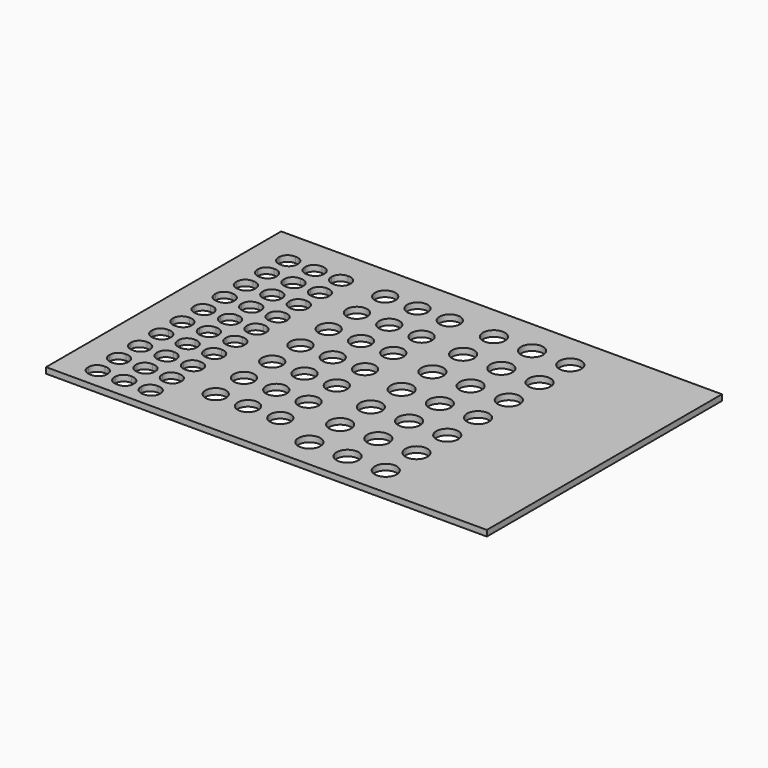
from build123d import *

# Parameters (mm, degrees)
F0_W     = 15
F0_H     = 10
F0_R     = 0.35
F0_R_2   = 0.375
F1_DEPTH = 0.2


with BuildPart() as f1:
    # F0 (on Top) → F1 (new body)
    with BuildSketch(Plane.XY):
        with Locations((7.5, -5)):
            Rectangle(F0_W, F0_H)
        with BuildLine():
            add(Edge.make_bspline(
                [(1.500725, -9.423245), (1.524845, -9.364392), (1.521017, -9.3)],
                knots=[0, 0, 0, 0.417835, 0.417835, 0.417835], degree=2, weights=[1, 0.978256, 1]))
            add(Edge.make_bspline(
                [(1.2, -9.603243), (1.422129, -9.615023), (1.500725, -9.423245)],
                knots=[5.07405, 5.07405, 5.07405, 6.283185, 6.283185, 6.283185], degree=2, weights=[1, 0.822748, 1]))
            add(Edge.make_bspline(
                [(0.878983, -9.3), (0.859887, -9.621281), (1.2, -9.603243)],
                knots=[2.723758, 2.723758, 2.723758, 4.350728, 4.350728, 4.350728], degree=2, weights=[1, 0.68697, 1]))
            add(Edge.make_bspline(
                [(1.2, -8.996757), (0.859887, -8.978719), (0.878983, -9.3)],
                knots=[1.932458, 1.932458, 1.932458, 3.559427, 3.559427, 3.559427], degree=2, weights=[1, 0.68697, 1]))
            add(Edge.make_bspline(
                [(1.500725, -9.176755), (1.422129, -8.984977), (1.2, -8.996757)],
                knots=[0, 0, 0, 1.209135, 1.209135, 1.209135], degree=2, weights=[1, 0.822748, 1]))
            add(Edge.make_bspline(
                [(1.521017, -9.3), (1.524845, -9.235608), (1.500725, -9.176755)],
                knots=[5.86535, 5.86535, 5.86535, 6.283185, 6.283185, 6.283185], degree=2, weights=[1, 0.978256, 1]))
        make_face(mode=Mode.SUBTRACT)
        with BuildLine():
            add(Edge.make_bspline(
                [(2.400725, -9.176755), (2.322129, -8.984977), (2.1, -8.996757)],
                knots=[0, 0, 0, 1.209135, 1.209135, 1.209135], degree=2, weights=[1, 0.822748, 1]))
            add(Edge.make_bspline(
                [(2.421017, -9.3), (2.424845, -9.235608), (2.400725, -9.176755)],
                knots=[5.86535, 5.86535, 5.86535, 6.283185, 6.283185, 6.283185], degree=2, weights=[1, 0.978256, 1]))
            add(Edge.make_bspline(
                [(2.400725, -9.423245), (2.424845, -9.364392), (2.421017, -9.3)],
                knots=[0, 0, 0, 0.417835, 0.417835, 0.417835], degree=2, weights=[1, 0.978256, 1]))
            add(Edge.make_bspline(
                [(2.1, -9.603243), (2.322129, -9.615023), (2.400725, -9.423245)],
                knots=[5.07405, 5.07405, 5.07405, 6.283185, 6.283185, 6.283185], degree=2, weights=[1, 0.822748, 1]))
            add(Edge.make_bspline(
                [(1.778983, -9.3), (1.759887, -9.621281), (2.1, -9.603243)],
                knots=[2.723758, 2.723758, 2.723758, 4.350728, 4.350728, 4.350728], degree=2, weights=[1, 0.68697, 1]))
            add(Edge.make_bspline(
                [(2.1, -8.996757), (1.759887, -8.978719), (1.778983, -9.3)],
                knots=[1.932458, 1.932458, 1.932458, 3.559427, 3.559427, 3.559427], degree=2, weights=[1, 0.68697, 1]))
        make_face(mode=Mode.SUBTRACT)
        with BuildLine():
            add(Edge.make_bspline(
                [(3.300725, -9.176755), (3.222129, -8.984977), (3, -8.996757)],
                knots=[0, 0, 0, 1.209135, 1.209135, 1.209135], degree=2, weights=[1, 0.822748, 1]))
            add(Edge.make_bspline(
                [(3.321017, -9.3), (3.324845, -9.235608), (3.300725, -9.176755)],
                knots=[5.86535, 5.86535, 5.86535, 6.283185, 6.283185, 6.283185], degree=2, weights=[1, 0.978256, 1]))
            add(Edge.make_bspline(
                [(3.300725, -9.423245), (3.324845, -9.364392), (3.321017, -9.3)],
                knots=[0, 0, 0, 0.417835, 0.417835, 0.417835], degree=2, weights=[1, 0.978256, 1]))
            add(Edge.make_bspline(
                [(3, -9.603243), (3.222129, -9.615023), (3.300725, -9.423245)],
                knots=[5.07405, 5.07405, 5.07405, 6.283185, 6.283185, 6.283185], degree=2, weights=[1, 0.822748, 1]))
            add(Edge.make_bspline(
                [(2.678983, -9.3), (2.659887, -9.621281), (3, -9.603243)],
                knots=[2.723758, 2.723758, 2.723758, 4.350728, 4.350728, 4.350728], degree=2, weights=[1, 0.68697, 1]))
            add(Edge.make_bspline(
                [(3, -8.996757), (2.659887, -8.978719), (2.678983, -9.3)],
                knots=[1.932458, 1.932458, 1.932458, 3.559427, 3.559427, 3.559427], degree=2, weights=[1, 0.68697, 1]))
        make_face(mode=Mode.SUBTRACT)
        with BuildLine():
            add(Edge.make_bspline(
                [(1.500725, -8.523245), (1.524845, -8.464392), (1.521017, -8.4)],
                knots=[0, 0, 0, 0.417835, 0.417835, 0.417835], degree=2, weights=[1, 0.978256, 1]))
            add(Edge.make_bspline(
                [(1.2, -8.703243), (1.422129, -8.715023), (1.500725, -8.523245)],
                knots=[5.07405, 5.07405, 5.07405, 6.283185, 6.283185, 6.283185], degree=2, weights=[1, 0.822748, 1]))
            add(Edge.make_bspline(
                [(0.878983, -8.4), (0.859887, -8.721281), (1.2, -8.703243)],
                knots=[2.723758, 2.723758, 2.723758, 4.350728, 4.350728, 4.350728], degree=2, weights=[1, 0.68697, 1]))
            add(Edge.make_bspline(
                [(1.2, -8.096757), (0.859887, -8.078719), (0.878983, -8.4)],
                knots=[1.932458, 1.932458, 1.932458, 3.559427, 3.559427, 3.559427], degree=2, weights=[1, 0.68697, 1]))
            add(Edge.make_bspline(
                [(1.500725, -8.276755), (1.422129, -8.084977), (1.2, -8.096757)],
                knots=[0, 0, 0, 1.209135, 1.209135, 1.209135], degree=2, weights=[1, 0.822748, 1]))
            add(Edge.make_bspline(
                [(1.521017, -8.4), (1.524845, -8.335608), (1.500725, -8.276755)],
                knots=[5.86535, 5.86535, 5.86535, 6.283185, 6.283185, 6.283185], degree=2, weights=[1, 0.978256, 1]))
        make_face(mode=Mode.SUBTRACT)
        with BuildLine():
            add(Edge.make_bspline(
                [(2.400725, -8.276755), (2.322129, -8.084977), (2.1, -8.096757)],
                knots=[0, 0, 0, 1.209135, 1.209135, 1.209135], degree=2, weights=[1, 0.822748, 1]))
            add(Edge.make_bspline(
                [(2.421017, -8.4), (2.424845, -8.335608), (2.400725, -8.276755)],
                knots=[5.86535, 5.86535, 5.86535, 6.283185, 6.283185, 6.283185], degree=2, weights=[1, 0.978256, 1]))
            add(Edge.make_bspline(
                [(2.400725, -8.523245), (2.424845, -8.464392), (2.421017, -8.4)],
                knots=[0, 0, 0, 0.417835, 0.417835, 0.417835], degree=2, weights=[1, 0.978256, 1]))
            add(Edge.make_bspline(
                [(2.1, -8.703243), (2.322129, -8.715023), (2.400725, -8.523245)],
                knots=[5.07405, 5.07405, 5.07405, 6.283185, 6.283185, 6.283185], degree=2, weights=[1, 0.822748, 1]))
            add(Edge.make_bspline(
                [(1.778983, -8.4), (1.759887, -8.721281), (2.1, -8.703243)],
                knots=[2.723758, 2.723758, 2.723758, 4.350728, 4.350728, 4.350728], degree=2, weights=[1, 0.68697, 1]))
            add(Edge.make_bspline(
                [(2.1, -8.096757), (1.759887, -8.078719), (1.778983, -8.4)],
                knots=[1.932458, 1.932458, 1.932458, 3.559427, 3.559427, 3.559427], degree=2, weights=[1, 0.68697, 1]))
        make_face(mode=Mode.SUBTRACT)
        with BuildLine():
            add(Edge.make_bspline(
                [(3.300725, -8.276755), (3.222129, -8.084977), (3, -8.096757)],
                knots=[0, 0, 0, 1.209135, 1.209135, 1.209135], degree=2, weights=[1, 0.822748, 1]))
            add(Edge.make_bspline(
                [(3.321017, -8.4), (3.324845, -8.335608), (3.300725, -8.276755)],
                knots=[5.86535, 5.86535, 5.86535, 6.283185, 6.283185, 6.283185], degree=2, weights=[1, 0.978256, 1]))
            add(Edge.make_bspline(
                [(3.300725, -8.523245), (3.324845, -8.464392), (3.321017, -8.4)],
                knots=[0, 0, 0, 0.417835, 0.417835, 0.417835], degree=2, weights=[1, 0.978256, 1]))
            add(Edge.make_bspline(
                [(3, -8.703243), (3.222129, -8.715023), (3.300725, -8.523245)],
                knots=[5.07405, 5.07405, 5.07405, 6.283185, 6.283185, 6.283185], degree=2, weights=[1, 0.822748, 1]))
            add(Edge.make_bspline(
                [(2.678983, -8.4), (2.659887, -8.721281), (3, -8.703243)],
                knots=[2.723758, 2.723758, 2.723758, 4.350728, 4.350728, 4.350728], degree=2, weights=[1, 0.68697, 1]))
            add(Edge.make_bspline(
                [(3, -8.096757), (2.659887, -8.078719), (2.678983, -8.4)],
                knots=[1.932458, 1.932458, 1.932458, 3.559427, 3.559427, 3.559427], degree=2, weights=[1, 0.68697, 1]))
        make_face(mode=Mode.SUBTRACT)
        with Locations((4.492105, -8.399996)):
            Circle(F0_R, mode=Mode.SUBTRACT)
        with Locations((5.592105, -8.399996)):
            Circle(F0_R, mode=Mode.SUBTRACT)
        with Locations((6.692105, -8.399996)):
            Circle(F0_R, mode=Mode.SUBTRACT)
        with BuildLine():
            add(Edge.make_bspline(
                [(1.500725, -7.623245), (1.524845, -7.564392), (1.521017, -7.5)],
                knots=[0, 0, 0, 0.417835, 0.417835, 0.417835], degree=2, weights=[1, 0.978256, 1]))
            add(Edge.make_bspline(
                [(1.2, -7.803243), (1.422129, -7.815023), (1.500725, -7.623245)],
                knots=[5.07405, 5.07405, 5.07405, 6.283185, 6.283185, 6.283185], degree=2, weights=[1, 0.822748, 1]))
            add(Edge.make_bspline(
                [(0.878983, -7.5), (0.859887, -7.821281), (1.2, -7.803243)],
                knots=[2.723758, 2.723758, 2.723758, 4.350728, 4.350728, 4.350728], degree=2, weights=[1, 0.68697, 1]))
            add(Edge.make_bspline(
                [(1.2, -7.196757), (0.859887, -7.178719), (0.878983, -7.5)],
                knots=[1.932458, 1.932458, 1.932458, 3.559427, 3.559427, 3.559427], degree=2, weights=[1, 0.68697, 1]))
            add(Edge.make_bspline(
                [(1.500725, -7.376755), (1.422129, -7.184977), (1.2, -7.196757)],
                knots=[0, 0, 0, 1.209135, 1.209135, 1.209135], degree=2, weights=[1, 0.822748, 1]))
            add(Edge.make_bspline(
                [(1.521017, -7.5), (1.524845, -7.435608), (1.500725, -7.376755)],
                knots=[5.86535, 5.86535, 5.86535, 6.283185, 6.283185, 6.283185], degree=2, weights=[1, 0.978256, 1]))
        make_face(mode=Mode.SUBTRACT)
        with BuildLine():
            add(Edge.make_bspline(
                [(1.500725, -6.723245), (1.524845, -6.664392), (1.521017, -6.6)],
                knots=[0, 0, 0, 0.417835, 0.417835, 0.417835], degree=2, weights=[1, 0.978256, 1]))
            add(Edge.make_bspline(
                [(1.2, -6.903243), (1.422129, -6.915023), (1.500725, -6.723245)],
                knots=[5.07405, 5.07405, 5.07405, 6.283185, 6.283185, 6.283185], degree=2, weights=[1, 0.822748, 1]))
            add(Edge.make_bspline(
                [(0.878983, -6.6), (0.859887, -6.921281), (1.2, -6.903243)],
                knots=[2.723758, 2.723758, 2.723758, 4.350728, 4.350728, 4.350728], degree=2, weights=[1, 0.68697, 1]))
            add(Edge.make_bspline(
                [(1.2, -6.296757), (0.859887, -6.278719), (0.878983, -6.6)],
                knots=[1.932458, 1.932458, 1.932458, 3.559427, 3.559427, 3.559427], degree=2, weights=[1, 0.68697, 1]))
            add(Edge.make_bspline(
                [(1.500725, -6.476755), (1.422129, -6.284977), (1.2, -6.296757)],
                knots=[0, 0, 0, 1.209135, 1.209135, 1.209135], degree=2, weights=[1, 0.822748, 1]))
            add(Edge.make_bspline(
                [(1.521017, -6.6), (1.524845, -6.535608), (1.500725, -6.476755)],
                knots=[5.86535, 5.86535, 5.86535, 6.283185, 6.283185, 6.283185], degree=2, weights=[1, 0.978256, 1]))
        make_face(mode=Mode.SUBTRACT)
        with BuildLine():
            add(Edge.make_bspline(
                [(2.400725, -7.376755), (2.322129, -7.184977), (2.1, -7.196757)],
                knots=[0, 0, 0, 1.209135, 1.209135, 1.209135], degree=2, weights=[1, 0.822748, 1]))
            add(Edge.make_bspline(
                [(2.421017, -7.5), (2.424845, -7.435608), (2.400725, -7.376755)],
                knots=[5.86535, 5.86535, 5.86535, 6.283185, 6.283185, 6.283185], degree=2, weights=[1, 0.978256, 1]))
            add(Edge.make_bspline(
                [(2.400725, -7.623245), (2.424845, -7.564392), (2.421017, -7.5)],
                knots=[0, 0, 0, 0.417835, 0.417835, 0.417835], degree=2, weights=[1, 0.978256, 1]))
            add(Edge.make_bspline(
                [(2.1, -7.803243), (2.322129, -7.815023), (2.400725, -7.623245)],
                knots=[5.07405, 5.07405, 5.07405, 6.283185, 6.283185, 6.283185], degree=2, weights=[1, 0.822748, 1]))
            add(Edge.make_bspline(
                [(1.778983, -7.5), (1.759887, -7.821281), (2.1, -7.803243)],
                knots=[2.723758, 2.723758, 2.723758, 4.350728, 4.350728, 4.350728], degree=2, weights=[1, 0.68697, 1]))
            add(Edge.make_bspline(
                [(2.1, -7.196757), (1.759887, -7.178719), (1.778983, -7.5)],
                knots=[1.932458, 1.932458, 1.932458, 3.559427, 3.559427, 3.559427], degree=2, weights=[1, 0.68697, 1]))
        make_face(mode=Mode.SUBTRACT)
        with BuildLine():
            add(Edge.make_bspline(
                [(3.300725, -7.376755), (3.222129, -7.184977), (3, -7.196757)],
                knots=[0, 0, 0, 1.209135, 1.209135, 1.209135], degree=2, weights=[1, 0.822748, 1]))
            add(Edge.make_bspline(
                [(3.321017, -7.5), (3.324845, -7.435608), (3.300725, -7.376755)],
                knots=[5.86535, 5.86535, 5.86535, 6.283185, 6.283185, 6.283185], degree=2, weights=[1, 0.978256, 1]))
            add(Edge.make_bspline(
                [(3.300725, -7.623245), (3.324845, -7.564392), (3.321017, -7.5)],
                knots=[0, 0, 0, 0.417835, 0.417835, 0.417835], degree=2, weights=[1, 0.978256, 1]))
            add(Edge.make_bspline(
                [(3, -7.803243), (3.222129, -7.815023), (3.300725, -7.623245)],
                knots=[5.07405, 5.07405, 5.07405, 6.283185, 6.283185, 6.283185], degree=2, weights=[1, 0.822748, 1]))
            add(Edge.make_bspline(
                [(2.678983, -7.5), (2.659887, -7.821281), (3, -7.803243)],
                knots=[2.723758, 2.723758, 2.723758, 4.350728, 4.350728, 4.350728], degree=2, weights=[1, 0.68697, 1]))
            add(Edge.make_bspline(
                [(3, -7.196757), (2.659887, -7.178719), (2.678983, -7.5)],
                knots=[1.932458, 1.932458, 1.932458, 3.559427, 3.559427, 3.559427], degree=2, weights=[1, 0.68697, 1]))
        make_face(mode=Mode.SUBTRACT)
        with BuildLine():
            add(Edge.make_bspline(
                [(2.400725, -6.476755), (2.322129, -6.284977), (2.1, -6.296757)],
                knots=[0, 0, 0, 1.209135, 1.209135, 1.209135], degree=2, weights=[1, 0.822748, 1]))
            add(Edge.make_bspline(
                [(2.421017, -6.6), (2.424845, -6.535608), (2.400725, -6.476755)],
                knots=[5.86535, 5.86535, 5.86535, 6.283185, 6.283185, 6.283185], degree=2, weights=[1, 0.978256, 1]))
            add(Edge.make_bspline(
                [(2.400725, -6.723245), (2.424845, -6.664392), (2.421017, -6.6)],
                knots=[0, 0, 0, 0.417835, 0.417835, 0.417835], degree=2, weights=[1, 0.978256, 1]))
            add(Edge.make_bspline(
                [(2.1, -6.903243), (2.322129, -6.915023), (2.400725, -6.723245)],
                knots=[5.07405, 5.07405, 5.07405, 6.283185, 6.283185, 6.283185], degree=2, weights=[1, 0.822748, 1]))
            add(Edge.make_bspline(
                [(1.778983, -6.6), (1.759887, -6.921281), (2.1, -6.903243)],
                knots=[2.723758, 2.723758, 2.723758, 4.350728, 4.350728, 4.350728], degree=2, weights=[1, 0.68697, 1]))
            add(Edge.make_bspline(
                [(2.1, -6.296757), (1.759887, -6.278719), (1.778983, -6.6)],
                knots=[1.932458, 1.932458, 1.932458, 3.559427, 3.559427, 3.559427], degree=2, weights=[1, 0.68697, 1]))
        make_face(mode=Mode.SUBTRACT)
        with BuildLine():
            add(Edge.make_bspline(
                [(3.300725, -6.476755), (3.222129, -6.284977), (3, -6.296757)],
                knots=[0, 0, 0, 1.209135, 1.209135, 1.209135], degree=2, weights=[1, 0.822748, 1]))
            add(Edge.make_bspline(
                [(3.321017, -6.6), (3.324845, -6.535608), (3.300725, -6.476755)],
                knots=[5.86535, 5.86535, 5.86535, 6.283185, 6.283185, 6.283185], degree=2, weights=[1, 0.978256, 1]))
            add(Edge.make_bspline(
                [(3.300725, -6.723245), (3.324845, -6.664392), (3.321017, -6.6)],
                knots=[0, 0, 0, 0.417835, 0.417835, 0.417835], degree=2, weights=[1, 0.978256, 1]))
            add(Edge.make_bspline(
                [(3, -6.903243), (3.222129, -6.915023), (3.300725, -6.723245)],
                knots=[5.07405, 5.07405, 5.07405, 6.283185, 6.283185, 6.283185], degree=2, weights=[1, 0.822748, 1]))
            add(Edge.make_bspline(
                [(2.678983, -6.6), (2.659887, -6.921281), (3, -6.903243)],
                knots=[2.723758, 2.723758, 2.723758, 4.350728, 4.350728, 4.350728], degree=2, weights=[1, 0.68697, 1]))
            add(Edge.make_bspline(
                [(3, -6.296757), (2.659887, -6.278719), (2.678983, -6.6)],
                knots=[1.932458, 1.932458, 1.932458, 3.559427, 3.559427, 3.559427], degree=2, weights=[1, 0.68697, 1]))
        make_face(mode=Mode.SUBTRACT)
        with BuildLine():
            add(Edge.make_bspline(
                [(1.500725, -5.823245), (1.524845, -5.764392), (1.521017, -5.7)],
                knots=[0, 0, 0, 0.417835, 0.417835, 0.417835], degree=2, weights=[1, 0.978256, 1]))
            add(Edge.make_bspline(
                [(1.2, -6.003243), (1.422129, -6.015023), (1.500725, -5.823245)],
                knots=[5.07405, 5.07405, 5.07405, 6.283185, 6.283185, 6.283185], degree=2, weights=[1, 0.822748, 1]))
            add(Edge.make_bspline(
                [(0.878983, -5.7), (0.859887, -6.021281), (1.2, -6.003243)],
                knots=[2.723758, 2.723758, 2.723758, 4.350728, 4.350728, 4.350728], degree=2, weights=[1, 0.68697, 1]))
            add(Edge.make_bspline(
                [(1.2, -5.396757), (0.859887, -5.378719), (0.878983, -5.7)],
                knots=[1.932458, 1.932458, 1.932458, 3.559427, 3.559427, 3.559427], degree=2, weights=[1, 0.68697, 1]))
            add(Edge.make_bspline(
                [(1.500725, -5.576755), (1.422129, -5.384977), (1.2, -5.396757)],
                knots=[0, 0, 0, 1.209135, 1.209135, 1.209135], degree=2, weights=[1, 0.822748, 1]))
            add(Edge.make_bspline(
                [(1.521017, -5.7), (1.524845, -5.635608), (1.500725, -5.576755)],
                knots=[5.86535, 5.86535, 5.86535, 6.283185, 6.283185, 6.283185], degree=2, weights=[1, 0.978256, 1]))
        make_face(mode=Mode.SUBTRACT)
        with BuildLine():
            add(Edge.make_bspline(
                [(2.400725, -5.576755), (2.322129, -5.384977), (2.1, -5.396757)],
                knots=[0, 0, 0, 1.209135, 1.209135, 1.209135], degree=2, weights=[1, 0.822748, 1]))
            add(Edge.make_bspline(
                [(2.421017, -5.7), (2.424845, -5.635608), (2.400725, -5.576755)],
                knots=[5.86535, 5.86535, 5.86535, 6.283185, 6.283185, 6.283185], degree=2, weights=[1, 0.978256, 1]))
            add(Edge.make_bspline(
                [(2.400725, -5.823245), (2.424845, -5.764392), (2.421017, -5.7)],
                knots=[0, 0, 0, 0.417835, 0.417835, 0.417835], degree=2, weights=[1, 0.978256, 1]))
            add(Edge.make_bspline(
                [(2.1, -6.003243), (2.322129, -6.015023), (2.400725, -5.823245)],
                knots=[5.07405, 5.07405, 5.07405, 6.283185, 6.283185, 6.283185], degree=2, weights=[1, 0.822748, 1]))
            add(Edge.make_bspline(
                [(1.778983, -5.7), (1.759887, -6.021281), (2.1, -6.003243)],
                knots=[2.723758, 2.723758, 2.723758, 4.350728, 4.350728, 4.350728], degree=2, weights=[1, 0.68697, 1]))
            add(Edge.make_bspline(
                [(2.1, -5.396757), (1.759887, -5.378719), (1.778983, -5.7)],
                knots=[1.932458, 1.932458, 1.932458, 3.559427, 3.559427, 3.559427], degree=2, weights=[1, 0.68697, 1]))
        make_face(mode=Mode.SUBTRACT)
        with BuildLine():
            add(Edge.make_bspline(
                [(3.300725, -5.576755), (3.222129, -5.384977), (3, -5.396757)],
                knots=[0, 0, 0, 1.209135, 1.209135, 1.209135], degree=2, weights=[1, 0.822748, 1]))
            add(Edge.make_bspline(
                [(3.321017, -5.7), (3.324845, -5.635608), (3.300725, -5.576755)],
                knots=[5.86535, 5.86535, 5.86535, 6.283185, 6.283185, 6.283185], degree=2, weights=[1, 0.978256, 1]))
            add(Edge.make_bspline(
                [(3.300725, -5.823245), (3.324845, -5.764392), (3.321017, -5.7)],
                knots=[0, 0, 0, 0.417835, 0.417835, 0.417835], degree=2, weights=[1, 0.978256, 1]))
            add(Edge.make_bspline(
                [(3, -6.003243), (3.222129, -6.015023), (3.300725, -5.823245)],
                knots=[5.07405, 5.07405, 5.07405, 6.283185, 6.283185, 6.283185], degree=2, weights=[1, 0.822748, 1]))
            add(Edge.make_bspline(
                [(2.678983, -5.7), (2.659887, -6.021281), (3, -6.003243)],
                knots=[2.723758, 2.723758, 2.723758, 4.350728, 4.350728, 4.350728], degree=2, weights=[1, 0.68697, 1]))
            add(Edge.make_bspline(
                [(3, -5.396757), (2.659887, -5.378719), (2.678983, -5.7)],
                knots=[1.932458, 1.932458, 1.932458, 3.559427, 3.559427, 3.559427], degree=2, weights=[1, 0.68697, 1]))
        make_face(mode=Mode.SUBTRACT)
        with Locations((4.493421, -7.199996)):
            Circle(F0_R, mode=Mode.SUBTRACT)
        with Locations((5.593421, -7.199996)):
            Circle(F0_R, mode=Mode.SUBTRACT)
        with Locations((6.693421, -7.199996)):
            Circle(F0_R, mode=Mode.SUBTRACT)
        with Locations((4.494737, -5.999997)):
            Circle(F0_R, mode=Mode.SUBTRACT)
        with Locations((5.594737, -5.999997)):
            Circle(F0_R, mode=Mode.SUBTRACT)
        with Locations((6.694737, -5.999997)):
            Circle(F0_R, mode=Mode.SUBTRACT)
        with Locations((8.160205, -8.999898)):
            Circle(F0_R_2, mode=Mode.SUBTRACT)
        with Locations((9.460205, -8.999898)):
            Circle(F0_R_2, mode=Mode.SUBTRACT)
        with Locations((10.760205, -8.999898)):
            Circle(F0_R_2, mode=Mode.SUBTRACT)
        with Locations((8.166837, -7.699915)):
            Circle(F0_R_2, mode=Mode.SUBTRACT)
        with Locations((9.466837, -7.699915)):
            Circle(F0_R_2, mode=Mode.SUBTRACT)
        with Locations((10.766837, -7.699915)):
            Circle(F0_R_2, mode=Mode.SUBTRACT)
        with Locations((8.17347, -6.399932)):
            Circle(F0_R_2, mode=Mode.SUBTRACT)
        with Locations((9.47347, -6.399932)):
            Circle(F0_R_2, mode=Mode.SUBTRACT)
        with Locations((10.77347, -6.399932)):
            Circle(F0_R_2, mode=Mode.SUBTRACT)
        with Locations((8.180102, -5.099949)):
            Circle(F0_R_2, mode=Mode.SUBTRACT)
        with Locations((9.480102, -5.099949)):
            Circle(F0_R_2, mode=Mode.SUBTRACT)
        with Locations((10.780102, -5.099949)):
            Circle(F0_R_2, mode=Mode.SUBTRACT)
        with BuildLine():
            add(Edge.make_bspline(
                [(1.500725, -4.923245), (1.524845, -4.864392), (1.521017, -4.8)],
                knots=[0, 0, 0, 0.417835, 0.417835, 0.417835], degree=2, weights=[1, 0.978256, 1]))
            add(Edge.make_bspline(
                [(1.2, -5.103243), (1.422129, -5.115023), (1.500725, -4.923245)],
                knots=[5.07405, 5.07405, 5.07405, 6.283185, 6.283185, 6.283185], degree=2, weights=[1, 0.822748, 1]))
            add(Edge.make_bspline(
                [(0.878983, -4.8), (0.859887, -5.121281), (1.2, -5.103243)],
                knots=[2.723758, 2.723758, 2.723758, 4.350728, 4.350728, 4.350728], degree=2, weights=[1, 0.68697, 1]))
            add(Edge.make_bspline(
                [(1.2, -4.496757), (0.859887, -4.478719), (0.878983, -4.8)],
                knots=[1.932458, 1.932458, 1.932458, 3.559427, 3.559427, 3.559427], degree=2, weights=[1, 0.68697, 1]))
            add(Edge.make_bspline(
                [(1.500725, -4.676755), (1.422129, -4.484977), (1.2, -4.496757)],
                knots=[0, 0, 0, 1.209135, 1.209135, 1.209135], degree=2, weights=[1, 0.822748, 1]))
            add(Edge.make_bspline(
                [(1.521017, -4.8), (1.524845, -4.735608), (1.500725, -4.676755)],
                knots=[5.86535, 5.86535, 5.86535, 6.283185, 6.283185, 6.283185], degree=2, weights=[1, 0.978256, 1]))
        make_face(mode=Mode.SUBTRACT)
        with BuildLine():
            add(Edge.make_bspline(
                [(1.500725, -4.023245), (1.524845, -3.964392), (1.521017, -3.9)],
                knots=[0, 0, 0, 0.417835, 0.417835, 0.417835], degree=2, weights=[1, 0.978256, 1]))
            add(Edge.make_bspline(
                [(1.2, -4.203243), (1.422129, -4.215023), (1.500725, -4.023245)],
                knots=[5.07405, 5.07405, 5.07405, 6.283185, 6.283185, 6.283185], degree=2, weights=[1, 0.822748, 1]))
            add(Edge.make_bspline(
                [(0.878983, -3.9), (0.859887, -4.221281), (1.2, -4.203243)],
                knots=[2.723758, 2.723758, 2.723758, 4.350728, 4.350728, 4.350728], degree=2, weights=[1, 0.68697, 1]))
            add(Edge.make_bspline(
                [(1.2, -3.596757), (0.859887, -3.578719), (0.878983, -3.9)],
                knots=[1.932458, 1.932458, 1.932458, 3.559427, 3.559427, 3.559427], degree=2, weights=[1, 0.68697, 1]))
            add(Edge.make_bspline(
                [(1.500725, -3.776755), (1.422129, -3.584977), (1.2, -3.596757)],
                knots=[0, 0, 0, 1.209135, 1.209135, 1.209135], degree=2, weights=[1, 0.822748, 1]))
            add(Edge.make_bspline(
                [(1.521017, -3.9), (1.524845, -3.835608), (1.500725, -3.776755)],
                knots=[5.86535, 5.86535, 5.86535, 6.283185, 6.283185, 6.283185], degree=2, weights=[1, 0.978256, 1]))
        make_face(mode=Mode.SUBTRACT)
        with BuildLine():
            add(Edge.make_bspline(
                [(2.400725, -4.676755), (2.322129, -4.484977), (2.1, -4.496757)],
                knots=[0, 0, 0, 1.209135, 1.209135, 1.209135], degree=2, weights=[1, 0.822748, 1]))
            add(Edge.make_bspline(
                [(2.421017, -4.8), (2.424845, -4.735608), (2.400725, -4.676755)],
                knots=[5.86535, 5.86535, 5.86535, 6.283185, 6.283185, 6.283185], degree=2, weights=[1, 0.978256, 1]))
            add(Edge.make_bspline(
                [(2.400725, -4.923245), (2.424845, -4.864392), (2.421017, -4.8)],
                knots=[0, 0, 0, 0.417835, 0.417835, 0.417835], degree=2, weights=[1, 0.978256, 1]))
            add(Edge.make_bspline(
                [(2.1, -5.103243), (2.322129, -5.115023), (2.400725, -4.923245)],
                knots=[5.07405, 5.07405, 5.07405, 6.283185, 6.283185, 6.283185], degree=2, weights=[1, 0.822748, 1]))
            add(Edge.make_bspline(
                [(1.778983, -4.8), (1.759887, -5.121281), (2.1, -5.103243)],
                knots=[2.723758, 2.723758, 2.723758, 4.350728, 4.350728, 4.350728], degree=2, weights=[1, 0.68697, 1]))
            add(Edge.make_bspline(
                [(2.1, -4.496757), (1.759887, -4.478719), (1.778983, -4.8)],
                knots=[1.932458, 1.932458, 1.932458, 3.559427, 3.559427, 3.559427], degree=2, weights=[1, 0.68697, 1]))
        make_face(mode=Mode.SUBTRACT)
        with BuildLine():
            add(Edge.make_bspline(
                [(3.300725, -4.676755), (3.222129, -4.484977), (3, -4.496757)],
                knots=[0, 0, 0, 1.209135, 1.209135, 1.209135], degree=2, weights=[1, 0.822748, 1]))
            add(Edge.make_bspline(
                [(3.321017, -4.8), (3.324845, -4.735608), (3.300725, -4.676755)],
                knots=[5.86535, 5.86535, 5.86535, 6.283185, 6.283185, 6.283185], degree=2, weights=[1, 0.978256, 1]))
            add(Edge.make_bspline(
                [(3.300725, -4.923245), (3.324845, -4.864392), (3.321017, -4.8)],
                knots=[0, 0, 0, 0.417835, 0.417835, 0.417835], degree=2, weights=[1, 0.978256, 1]))
            add(Edge.make_bspline(
                [(3, -5.103243), (3.222129, -5.115023), (3.300725, -4.923245)],
                knots=[5.07405, 5.07405, 5.07405, 6.283185, 6.283185, 6.283185], degree=2, weights=[1, 0.822748, 1]))
            add(Edge.make_bspline(
                [(2.678983, -4.8), (2.659887, -5.121281), (3, -5.103243)],
                knots=[2.723758, 2.723758, 2.723758, 4.350728, 4.350728, 4.350728], degree=2, weights=[1, 0.68697, 1]))
            add(Edge.make_bspline(
                [(3, -4.496757), (2.659887, -4.478719), (2.678983, -4.8)],
                knots=[1.932458, 1.932458, 1.932458, 3.559427, 3.559427, 3.559427], degree=2, weights=[1, 0.68697, 1]))
        make_face(mode=Mode.SUBTRACT)
        with BuildLine():
            add(Edge.make_bspline(
                [(2.400725, -3.776755), (2.322129, -3.584977), (2.1, -3.596757)],
                knots=[0, 0, 0, 1.209135, 1.209135, 1.209135], degree=2, weights=[1, 0.822748, 1]))
            add(Edge.make_bspline(
                [(2.421017, -3.9), (2.424845, -3.835608), (2.400725, -3.776755)],
                knots=[5.86535, 5.86535, 5.86535, 6.283185, 6.283185, 6.283185], degree=2, weights=[1, 0.978256, 1]))
            add(Edge.make_bspline(
                [(2.400725, -4.023245), (2.424845, -3.964392), (2.421017, -3.9)],
                knots=[0, 0, 0, 0.417835, 0.417835, 0.417835], degree=2, weights=[1, 0.978256, 1]))
            add(Edge.make_bspline(
                [(2.1, -4.203243), (2.322129, -4.215023), (2.400725, -4.023245)],
                knots=[5.07405, 5.07405, 5.07405, 6.283185, 6.283185, 6.283185], degree=2, weights=[1, 0.822748, 1]))
            add(Edge.make_bspline(
                [(1.778983, -3.9), (1.759887, -4.221281), (2.1, -4.203243)],
                knots=[2.723758, 2.723758, 2.723758, 4.350728, 4.350728, 4.350728], degree=2, weights=[1, 0.68697, 1]))
            add(Edge.make_bspline(
                [(2.1, -3.596757), (1.759887, -3.578719), (1.778983, -3.9)],
                knots=[1.932458, 1.932458, 1.932458, 3.559427, 3.559427, 3.559427], degree=2, weights=[1, 0.68697, 1]))
        make_face(mode=Mode.SUBTRACT)
        with BuildLine():
            add(Edge.make_bspline(
                [(3.300725, -3.776755), (3.222129, -3.584977), (3, -3.596757)],
                knots=[0, 0, 0, 1.209135, 1.209135, 1.209135], degree=2, weights=[1, 0.822748, 1]))
            add(Edge.make_bspline(
                [(3.321017, -3.9), (3.324845, -3.835608), (3.300725, -3.776755)],
                knots=[5.86535, 5.86535, 5.86535, 6.283185, 6.283185, 6.283185], degree=2, weights=[1, 0.978256, 1]))
            add(Edge.make_bspline(
                [(3.300725, -4.023245), (3.324845, -3.964392), (3.321017, -3.9)],
                knots=[0, 0, 0, 0.417835, 0.417835, 0.417835], degree=2, weights=[1, 0.978256, 1]))
            add(Edge.make_bspline(
                [(3, -4.203243), (3.222129, -4.215023), (3.300725, -4.023245)],
                knots=[5.07405, 5.07405, 5.07405, 6.283185, 6.283185, 6.283185], degree=2, weights=[1, 0.822748, 1]))
            add(Edge.make_bspline(
                [(2.678983, -3.9), (2.659887, -4.221281), (3, -4.203243)],
                knots=[2.723758, 2.723758, 2.723758, 4.350728, 4.350728, 4.350728], degree=2, weights=[1, 0.68697, 1]))
            add(Edge.make_bspline(
                [(3, -3.596757), (2.659887, -3.578719), (2.678983, -3.9)],
                knots=[1.932458, 1.932458, 1.932458, 3.559427, 3.559427, 3.559427], degree=2, weights=[1, 0.68697, 1]))
        make_face(mode=Mode.SUBTRACT)
        with BuildLine():
            add(Edge.make_bspline(
                [(1.500725, -3.123245), (1.524845, -3.064392), (1.521017, -3)],
                knots=[0, 0, 0, 0.417835, 0.417835, 0.417835], degree=2, weights=[1, 0.978256, 1]))
            add(Edge.make_bspline(
                [(1.2, -3.303243), (1.422129, -3.315023), (1.500725, -3.123245)],
                knots=[5.07405, 5.07405, 5.07405, 6.283185, 6.283185, 6.283185], degree=2, weights=[1, 0.822748, 1]))
            add(Edge.make_bspline(
                [(0.878983, -3), (0.859887, -3.321281), (1.2, -3.303243)],
                knots=[2.723758, 2.723758, 2.723758, 4.350728, 4.350728, 4.350728], degree=2, weights=[1, 0.68697, 1]))
            add(Edge.make_bspline(
                [(1.2, -2.696757), (0.859887, -2.678719), (0.878983, -3)],
                knots=[1.932458, 1.932458, 1.932458, 3.559427, 3.559427, 3.559427], degree=2, weights=[1, 0.68697, 1]))
            add(Edge.make_bspline(
                [(1.500725, -2.876755), (1.422129, -2.684977), (1.2, -2.696757)],
                knots=[0, 0, 0, 1.209135, 1.209135, 1.209135], degree=2, weights=[1, 0.822748, 1]))
            add(Edge.make_bspline(
                [(1.521017, -3), (1.524845, -2.935608), (1.500725, -2.876755)],
                knots=[5.86535, 5.86535, 5.86535, 6.283185, 6.283185, 6.283185], degree=2, weights=[1, 0.978256, 1]))
        make_face(mode=Mode.SUBTRACT)
        with BuildLine():
            add(Edge.make_bspline(
                [(2.400725, -2.876755), (2.322129, -2.684977), (2.1, -2.696757)],
                knots=[0, 0, 0, 1.209135, 1.209135, 1.209135], degree=2, weights=[1, 0.822748, 1]))
            add(Edge.make_bspline(
                [(2.421017, -3), (2.424845, -2.935608), (2.400725, -2.876755)],
                knots=[5.86535, 5.86535, 5.86535, 6.283185, 6.283185, 6.283185], degree=2, weights=[1, 0.978256, 1]))
            add(Edge.make_bspline(
                [(2.400725, -3.123245), (2.424845, -3.064392), (2.421017, -3)],
                knots=[0, 0, 0, 0.417835, 0.417835, 0.417835], degree=2, weights=[1, 0.978256, 1]))
            add(Edge.make_bspline(
                [(2.1, -3.303243), (2.322129, -3.315023), (2.400725, -3.123245)],
                knots=[5.07405, 5.07405, 5.07405, 6.283185, 6.283185, 6.283185], degree=2, weights=[1, 0.822748, 1]))
            add(Edge.make_bspline(
                [(1.778983, -3), (1.759887, -3.321281), (2.1, -3.303243)],
                knots=[2.723758, 2.723758, 2.723758, 4.350728, 4.350728, 4.350728], degree=2, weights=[1, 0.68697, 1]))
            add(Edge.make_bspline(
                [(2.1, -2.696757), (1.759887, -2.678719), (1.778983, -3)],
                knots=[1.932458, 1.932458, 1.932458, 3.559427, 3.559427, 3.559427], degree=2, weights=[1, 0.68697, 1]))
        make_face(mode=Mode.SUBTRACT)
        with BuildLine():
            add(Edge.make_bspline(
                [(3.300725, -2.876755), (3.222129, -2.684977), (3, -2.696757)],
                knots=[0, 0, 0, 1.209135, 1.209135, 1.209135], degree=2, weights=[1, 0.822748, 1]))
            add(Edge.make_bspline(
                [(3.321017, -3), (3.324845, -2.935608), (3.300725, -2.876755)],
                knots=[5.86535, 5.86535, 5.86535, 6.283185, 6.283185, 6.283185], degree=2, weights=[1, 0.978256, 1]))
            add(Edge.make_bspline(
                [(3.300725, -3.123245), (3.324845, -3.064392), (3.321017, -3)],
                knots=[0, 0, 0, 0.417835, 0.417835, 0.417835], degree=2, weights=[1, 0.978256, 1]))
            add(Edge.make_bspline(
                [(3, -3.303243), (3.222129, -3.315023), (3.300725, -3.123245)],
                knots=[5.07405, 5.07405, 5.07405, 6.283185, 6.283185, 6.283185], degree=2, weights=[1, 0.822748, 1]))
            add(Edge.make_bspline(
                [(2.678983, -3), (2.659887, -3.321281), (3, -3.303243)],
                knots=[2.723758, 2.723758, 2.723758, 4.350728, 4.350728, 4.350728], degree=2, weights=[1, 0.68697, 1]))
            add(Edge.make_bspline(
                [(3, -2.696757), (2.659887, -2.678719), (2.678983, -3)],
                knots=[1.932458, 1.932458, 1.932458, 3.559427, 3.559427, 3.559427], degree=2, weights=[1, 0.68697, 1]))
        make_face(mode=Mode.SUBTRACT)
        with Locations((4.496053, -4.799998)):
            Circle(F0_R, mode=Mode.SUBTRACT)
        with Locations((5.596053, -4.799998)):
            Circle(F0_R, mode=Mode.SUBTRACT)
        with Locations((6.696053, -4.799998)):
            Circle(F0_R, mode=Mode.SUBTRACT)
        with Locations((4.497368, -3.599999)):
            Circle(F0_R, mode=Mode.SUBTRACT)
        with Locations((5.597368, -3.599999)):
            Circle(F0_R, mode=Mode.SUBTRACT)
        with Locations((6.697368, -3.599999)):
            Circle(F0_R, mode=Mode.SUBTRACT)
        with BuildLine():
            add(Edge.make_bspline(
                [(1.500725, -2.223245), (1.524845, -2.164392), (1.521017, -2.1)],
                knots=[0, 0, 0, 0.417835, 0.417835, 0.417835], degree=2, weights=[1, 0.978256, 1]))
            add(Edge.make_bspline(
                [(1.2, -2.403243), (1.422129, -2.415023), (1.500725, -2.223245)],
                knots=[5.07405, 5.07405, 5.07405, 6.283185, 6.283185, 6.283185], degree=2, weights=[1, 0.822748, 1]))
            add(Edge.make_bspline(
                [(0.878983, -2.1), (0.859887, -2.421281), (1.2, -2.403243)],
                knots=[2.723758, 2.723758, 2.723758, 4.350728, 4.350728, 4.350728], degree=2, weights=[1, 0.68697, 1]))
            add(Edge.make_bspline(
                [(1.2, -1.796757), (0.859887, -1.778719), (0.878983, -2.1)],
                knots=[1.932458, 1.932458, 1.932458, 3.559427, 3.559427, 3.559427], degree=2, weights=[1, 0.68697, 1]))
            add(Edge.make_bspline(
                [(1.500725, -1.976755), (1.422129, -1.784977), (1.2, -1.796757)],
                knots=[0, 0, 0, 1.209135, 1.209135, 1.209135], degree=2, weights=[1, 0.822748, 1]))
            add(Edge.make_bspline(
                [(1.521017, -2.1), (1.524845, -2.035608), (1.500725, -1.976755)],
                knots=[5.86535, 5.86535, 5.86535, 6.283185, 6.283185, 6.283185], degree=2, weights=[1, 0.978256, 1]))
        make_face(mode=Mode.SUBTRACT)
        with BuildLine():
            add(Edge.make_bspline(
                [(2.400725, -1.976755), (2.322129, -1.784977), (2.1, -1.796757)],
                knots=[0, 0, 0, 1.209135, 1.209135, 1.209135], degree=2, weights=[1, 0.822748, 1]))
            add(Edge.make_bspline(
                [(2.421017, -2.1), (2.424845, -2.035608), (2.400725, -1.976755)],
                knots=[5.86535, 5.86535, 5.86535, 6.283185, 6.283185, 6.283185], degree=2, weights=[1, 0.978256, 1]))
            add(Edge.make_bspline(
                [(2.400725, -2.223245), (2.424845, -2.164392), (2.421017, -2.1)],
                knots=[0, 0, 0, 0.417835, 0.417835, 0.417835], degree=2, weights=[1, 0.978256, 1]))
            add(Edge.make_bspline(
                [(2.1, -2.403243), (2.322129, -2.415023), (2.400725, -2.223245)],
                knots=[5.07405, 5.07405, 5.07405, 6.283185, 6.283185, 6.283185], degree=2, weights=[1, 0.822748, 1]))
            add(Edge.make_bspline(
                [(1.778983, -2.1), (1.759887, -2.421281), (2.1, -2.403243)],
                knots=[2.723758, 2.723758, 2.723758, 4.350728, 4.350728, 4.350728], degree=2, weights=[1, 0.68697, 1]))
            add(Edge.make_bspline(
                [(2.1, -1.796757), (1.759887, -1.778719), (1.778983, -2.1)],
                knots=[1.932458, 1.932458, 1.932458, 3.559427, 3.559427, 3.559427], degree=2, weights=[1, 0.68697, 1]))
        make_face(mode=Mode.SUBTRACT)
        with BuildLine():
            add(Edge.make_bspline(
                [(3.300725, -1.976755), (3.222129, -1.784977), (3, -1.796757)],
                knots=[0, 0, 0, 1.209135, 1.209135, 1.209135], degree=2, weights=[1, 0.822748, 1]))
            add(Edge.make_bspline(
                [(3.321017, -2.1), (3.324845, -2.035608), (3.300725, -1.976755)],
                knots=[5.86535, 5.86535, 5.86535, 6.283185, 6.283185, 6.283185], degree=2, weights=[1, 0.978256, 1]))
            add(Edge.make_bspline(
                [(3.300725, -2.223245), (3.324845, -2.164392), (3.321017, -2.1)],
                knots=[0, 0, 0, 0.417835, 0.417835, 0.417835], degree=2, weights=[1, 0.978256, 1]))
            add(Edge.make_bspline(
                [(3, -2.403243), (3.222129, -2.415023), (3.300725, -2.223245)],
                knots=[5.07405, 5.07405, 5.07405, 6.283185, 6.283185, 6.283185], degree=2, weights=[1, 0.822748, 1]))
            add(Edge.make_bspline(
                [(2.678983, -2.1), (2.659887, -2.421281), (3, -2.403243)],
                knots=[2.723758, 2.723758, 2.723758, 4.350728, 4.350728, 4.350728], degree=2, weights=[1, 0.68697, 1]))
            add(Edge.make_bspline(
                [(3, -1.796757), (2.659887, -1.778719), (2.678983, -2.1)],
                knots=[1.932458, 1.932458, 1.932458, 3.559427, 3.559427, 3.559427], degree=2, weights=[1, 0.68697, 1]))
        make_face(mode=Mode.SUBTRACT)
        with BuildLine():
            add(Edge.make_bspline(
                [(1.500725, -1.076755), (1.422129, -0.884977), (1.2, -0.896757)],
                knots=[0, 0, 0, 1.209135, 1.209135, 1.209135], degree=2, weights=[1, 0.822748, 1]))
            add(Edge.make_bspline(
                [(1.521017, -1.2), (1.524845, -1.135608), (1.500725, -1.076755)],
                knots=[5.86535, 5.86535, 5.86535, 6.283185, 6.283185, 6.283185], degree=2, weights=[1, 0.978256, 1]))
            add(Edge.make_bspline(
                [(1.500725, -1.323245), (1.524845, -1.264392), (1.521017, -1.2)],
                knots=[0, 0, 0, 0.417835, 0.417835, 0.417835], degree=2, weights=[1, 0.978256, 1]))
            add(Edge.make_bspline(
                [(1.2, -1.503243), (1.422129, -1.515023), (1.500725, -1.323245)],
                knots=[5.07405, 5.07405, 5.07405, 6.283185, 6.283185, 6.283185], degree=2, weights=[1, 0.822748, 1]))
            add(Edge.make_bspline(
                [(0.878983, -1.2), (0.859887, -1.521281), (1.2, -1.503243)],
                knots=[2.723758, 2.723758, 2.723758, 4.350728, 4.350728, 4.350728], degree=2, weights=[1, 0.68697, 1]))
            add(Edge.make_bspline(
                [(1.2, -0.896757), (0.859887, -0.878719), (0.878983, -1.2)],
                knots=[1.932458, 1.932458, 1.932458, 3.559427, 3.559427, 3.559427], degree=2, weights=[1, 0.68697, 1]))
        make_face(mode=Mode.SUBTRACT)
        with BuildLine():
            add(Edge.make_bspline(
                [(2.400725, -1.076755), (2.322129, -0.884977), (2.1, -0.896757)],
                knots=[0, 0, 0, 1.209135, 1.209135, 1.209135], degree=2, weights=[1, 0.822748, 1]))
            add(Edge.make_bspline(
                [(2.421017, -1.2), (2.424845, -1.135608), (2.400725, -1.076755)],
                knots=[5.86535, 5.86535, 5.86535, 6.283185, 6.283185, 6.283185], degree=2, weights=[1, 0.978256, 1]))
            add(Edge.make_bspline(
                [(2.400725, -1.323245), (2.424845, -1.264392), (2.421017, -1.2)],
                knots=[0, 0, 0, 0.417835, 0.417835, 0.417835], degree=2, weights=[1, 0.978256, 1]))
            add(Edge.make_bspline(
                [(2.1, -1.503243), (2.322129, -1.515023), (2.400725, -1.323245)],
                knots=[5.07405, 5.07405, 5.07405, 6.283185, 6.283185, 6.283185], degree=2, weights=[1, 0.822748, 1]))
            add(Edge.make_bspline(
                [(1.778983, -1.2), (1.759887, -1.521281), (2.1, -1.503243)],
                knots=[2.723758, 2.723758, 2.723758, 4.350728, 4.350728, 4.350728], degree=2, weights=[1, 0.68697, 1]))
            add(Edge.make_bspline(
                [(2.1, -0.896757), (1.759887, -0.878719), (1.778983, -1.2)],
                knots=[1.932458, 1.932458, 1.932458, 3.559427, 3.559427, 3.559427], degree=2, weights=[1, 0.68697, 1]))
        make_face(mode=Mode.SUBTRACT)
        with BuildLine():
            add(Edge.make_bspline(
                [(3.300725, -1.076755), (3.222129, -0.884977), (3, -0.896757)],
                knots=[0, 0, 0, 1.209135, 1.209135, 1.209135], degree=2, weights=[1, 0.822748, 1]))
            add(Edge.make_bspline(
                [(3.321017, -1.2), (3.324845, -1.135608), (3.300725, -1.076755)],
                knots=[5.86535, 5.86535, 5.86535, 6.283185, 6.283185, 6.283185], degree=2, weights=[1, 0.978256, 1]))
            add(Edge.make_bspline(
                [(3.300725, -1.323245), (3.324845, -1.264392), (3.321017, -1.2)],
                knots=[0, 0, 0, 0.417835, 0.417835, 0.417835], degree=2, weights=[1, 0.978256, 1]))
            add(Edge.make_bspline(
                [(3, -1.503243), (3.222129, -1.515023), (3.300725, -1.323245)],
                knots=[5.07405, 5.07405, 5.07405, 6.283185, 6.283185, 6.283185], degree=2, weights=[1, 0.822748, 1]))
            add(Edge.make_bspline(
                [(2.678983, -1.2), (2.659887, -1.521281), (3, -1.503243)],
                knots=[2.723758, 2.723758, 2.723758, 4.350728, 4.350728, 4.350728], degree=2, weights=[1, 0.68697, 1]))
            add(Edge.make_bspline(
                [(3, -0.896757), (2.659887, -0.878719), (2.678983, -1.2)],
                knots=[1.932458, 1.932458, 1.932458, 3.559427, 3.559427, 3.559427], degree=2, weights=[1, 0.68697, 1]))
        make_face(mode=Mode.SUBTRACT)
        with Locations((4.498684, -2.399999)):
            Circle(F0_R, mode=Mode.SUBTRACT)
        with Locations((5.598684, -2.399999)):
            Circle(F0_R, mode=Mode.SUBTRACT)
        with Locations((6.698684, -2.399999)):
            Circle(F0_R, mode=Mode.SUBTRACT)
        with Locations((4.5, -1.2)):
            Circle(F0_R, mode=Mode.SUBTRACT)
        with Locations((5.6, -1.2)):
            Circle(F0_R, mode=Mode.SUBTRACT)
        with Locations((6.7, -1.2)):
            Circle(F0_R, mode=Mode.SUBTRACT)
        with Locations((8.186735, -3.799966)):
            Circle(F0_R_2, mode=Mode.SUBTRACT)
        with Locations((9.486735, -3.799966)):
            Circle(F0_R_2, mode=Mode.SUBTRACT)
        with Locations((10.786735, -3.799966)):
            Circle(F0_R_2, mode=Mode.SUBTRACT)
        with Locations((8.193367, -2.499983)):
            Circle(F0_R_2, mode=Mode.SUBTRACT)
        with Locations((9.493367, -2.499983)):
            Circle(F0_R_2, mode=Mode.SUBTRACT)
        with Locations((10.793367, -2.499983)):
            Circle(F0_R_2, mode=Mode.SUBTRACT)
        with Locations((8.2, -1.2)):
            Circle(F0_R_2, mode=Mode.SUBTRACT)
        with Locations((9.5, -1.2)):
            Circle(F0_R_2, mode=Mode.SUBTRACT)
        with Locations((10.8, -1.2)):
            Circle(F0_R_2, mode=Mode.SUBTRACT)
    extrude(amount=F1_DEPTH)


solid = f1.part
